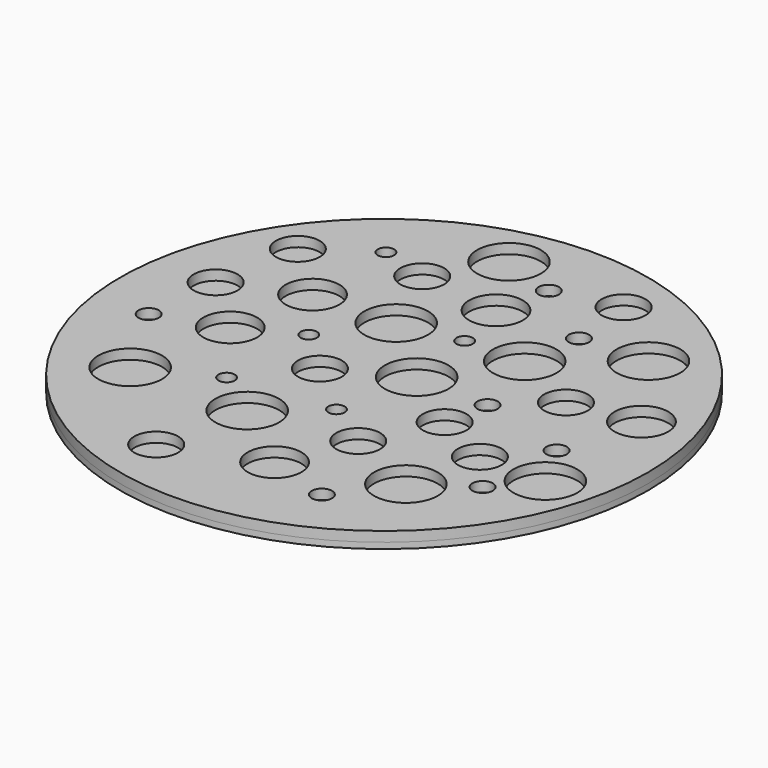
from build123d import *

# Parameters (mm, degrees)
F0_R     = 132.5
F0_R_2   = 11
F0_R_3   = 16
F0_R_4   = 5.1
F0_R_5   = 13.5
F0_R_6   = 4.1
F1_DEPTH = 5
F2_DEPTH = 3


with BuildPart() as f1:
    # F0 (on Top) → F1 (new body)
    with BuildSketch(Plane.XY):
        Circle(F0_R)
        with Locations((-32.839254, -101.938643)):
            Circle(F0_R_2, mode=Mode.SUBTRACT)
        with Locations((-81.735484, -57.151336)):
            Circle(F0_R_3, mode=Mode.SUBTRACT)
        with Locations((-104.334578, -17.294746)):
            Circle(F0_R_4, mode=Mode.SUBTRACT)
        with Locations((-72.284952, -6.200644)):
            Circle(F0_R_5, mode=Mode.SUBTRACT)
        with Locations((-46.809606, -40.304739)):
            Circle(F0_R_6, mode=Mode.SUBTRACT)
        with Locations((-22.977829, -57.151336)):
            Circle(F0_R_3, mode=Mode.SUBTRACT)
        with Locations((-22.977829, -11.542249)):
            Circle(F0_R_2, mode=Mode.SUBTRACT)
        with Locations((12.769838, -84.681153)):
            Circle(F0_R_5, mode=Mode.SUBTRACT)
        with Locations((44.408575, -94.54257)):
            Circle(F0_R_4, mode=Mode.SUBTRACT)
        with Locations((64.542316, -67.012765)):
            Circle(F0_R_3, mode=Mode.SUBTRACT)
        with Locations((27.151082, -50.166164)):
            Circle(F0_R_2, mode=Mode.SUBTRACT)
        with Locations((3.730196, -34.552239)):
            Circle(F0_R_6, mode=Mode.SUBTRACT)
        with Locations((43.586791, -16.472962)):
            Circle(F0_R_2, mode=Mode.SUBTRACT)
        with Locations((89.606754, -50.166167)):
            Circle(F0_R_4, mode=Mode.SUBTRACT)
        with Locations((72.760172, -30.854205)):
            Circle(F0_R_2, mode=Mode.SUBTRACT)
        with Locations((92.893913, -7.844214)):
            Circle(F0_R_4, mode=Mode.SUBTRACT)
        with Locations((105.631582, -30.854205)):
            Circle(F0_R_3, mode=Mode.SUBTRACT)
        with Locations((-100.636549, 20.09649)):
            Circle(F0_R_2, mode=Mode.SUBTRACT)
        with Locations((-93.240485, 62.418438)):
            Circle(F0_R_2, mode=Mode.SUBTRACT)
        with Locations((-44.344265, 8.180597)):
            Circle(F0_R_6, mode=Mode.SUBTRACT)
        with Locations((-64.477995, 35.710413)):
            Circle(F0_R_5, mode=Mode.SUBTRACT)
        with Locations((-23.799634, 37.353978)):
            Circle(F0_R_3, mode=Mode.SUBTRACT)
        with Locations((-64.477995, 81.730388)):
            Circle(F0_R_6, mode=Mode.SUBTRACT)
        with Locations((-40.646229, 74.745208)):
            Circle(F0_R_2, mode=Mode.SUBTRACT)
        with Locations((-21.745151, 105.562173)):
            Circle(F0_R_3, mode=Mode.SUBTRACT)
        with Locations((11.126248, 6.537026)):
            Circle(F0_R_3, mode=Mode.SUBTRACT)
        with Locations((47.695715, 5.304352)):
            Circle(F0_R_4, mode=Mode.SUBTRACT)
        with Locations((6.606427, 42.284694)):
            Circle(F0_R_6, mode=Mode.SUBTRACT)
        with Locations((35.779811, 43.517366)):
            Circle(F0_R_3, mode=Mode.SUBTRACT)
        with Locations((70.294805, 26.259881)):
            Circle(F0_R_2, mode=Mode.SUBTRACT)
        with Locations((103.57713, 32.012377)):
            Circle(F0_R_5, mode=Mode.SUBTRACT)
        with Locations((0, 70.225395)):
            Circle(F0_R_5, mode=Mode.SUBTRACT)
        with Locations((5.784642, 96.111633)):
            Circle(F0_R_4, mode=Mode.SUBTRACT)
        with Locations((40.299647, 71.868971)):
            Circle(F0_R_4, mode=Mode.SUBTRACT)
        with Locations((37.423402, 103.507705)):
            Circle(F0_R_2, mode=Mode.SUBTRACT)
        with Locations((73.581956, 73.923431)):
            Circle(F0_R_3, mode=Mode.SUBTRACT)
    extrude(amount=F1_DEPTH)


with BuildPart() as f2:
    # F0 (on Top) → F2 (new body)
    with BuildSketch(Plane.XY):
        Circle(F0_R)
        with Locations((-32.839254, -101.938643)):
            Circle(F0_R_2, mode=Mode.SUBTRACT)
        with Locations((-81.735484, -57.151336)):
            Circle(F0_R_3, mode=Mode.SUBTRACT)
        with Locations((-104.334578, -17.294746)):
            Circle(F0_R_4, mode=Mode.SUBTRACT)
        with Locations((-72.284952, -6.200644)):
            Circle(F0_R_5, mode=Mode.SUBTRACT)
        with Locations((-46.809606, -40.304739)):
            Circle(F0_R_6, mode=Mode.SUBTRACT)
        with Locations((-22.977829, -57.151336)):
            Circle(F0_R_3, mode=Mode.SUBTRACT)
        with Locations((-22.977829, -11.542249)):
            Circle(F0_R_2, mode=Mode.SUBTRACT)
        with Locations((12.769838, -84.681153)):
            Circle(F0_R_5, mode=Mode.SUBTRACT)
        with Locations((44.408575, -94.54257)):
            Circle(F0_R_4, mode=Mode.SUBTRACT)
        with Locations((64.542316, -67.012765)):
            Circle(F0_R_3, mode=Mode.SUBTRACT)
        with Locations((27.151082, -50.166164)):
            Circle(F0_R_2, mode=Mode.SUBTRACT)
        with Locations((3.730196, -34.552239)):
            Circle(F0_R_6, mode=Mode.SUBTRACT)
        with Locations((43.586791, -16.472962)):
            Circle(F0_R_2, mode=Mode.SUBTRACT)
        with Locations((89.606754, -50.166167)):
            Circle(F0_R_4, mode=Mode.SUBTRACT)
        with Locations((72.760172, -30.854205)):
            Circle(F0_R_2, mode=Mode.SUBTRACT)
        with Locations((92.893913, -7.844214)):
            Circle(F0_R_4, mode=Mode.SUBTRACT)
        with Locations((105.631582, -30.854205)):
            Circle(F0_R_3, mode=Mode.SUBTRACT)
        with Locations((-100.636549, 20.09649)):
            Circle(F0_R_2, mode=Mode.SUBTRACT)
        with Locations((-93.240485, 62.418438)):
            Circle(F0_R_2, mode=Mode.SUBTRACT)
        with Locations((-44.344265, 8.180597)):
            Circle(F0_R_6, mode=Mode.SUBTRACT)
        with Locations((-64.477995, 35.710413)):
            Circle(F0_R_5, mode=Mode.SUBTRACT)
        with Locations((-23.799634, 37.353978)):
            Circle(F0_R_3, mode=Mode.SUBTRACT)
        with Locations((-64.477995, 81.730388)):
            Circle(F0_R_6, mode=Mode.SUBTRACT)
        with Locations((-40.646229, 74.745208)):
            Circle(F0_R_2, mode=Mode.SUBTRACT)
        with Locations((-21.745151, 105.562173)):
            Circle(F0_R_3, mode=Mode.SUBTRACT)
        with Locations((11.126248, 6.537026)):
            Circle(F0_R_3, mode=Mode.SUBTRACT)
        with Locations((47.695715, 5.304352)):
            Circle(F0_R_4, mode=Mode.SUBTRACT)
        with Locations((6.606427, 42.284694)):
            Circle(F0_R_6, mode=Mode.SUBTRACT)
        with Locations((35.779811, 43.517366)):
            Circle(F0_R_3, mode=Mode.SUBTRACT)
        with Locations((70.294805, 26.259881)):
            Circle(F0_R_2, mode=Mode.SUBTRACT)
        with Locations((103.57713, 32.012377)):
            Circle(F0_R_5, mode=Mode.SUBTRACT)
        with Locations((0, 70.225395)):
            Circle(F0_R_5, mode=Mode.SUBTRACT)
        with Locations((5.784642, 96.111633)):
            Circle(F0_R_4, mode=Mode.SUBTRACT)
        with Locations((40.299647, 71.868971)):
            Circle(F0_R_4, mode=Mode.SUBTRACT)
        with Locations((37.423402, 103.507705)):
            Circle(F0_R_2, mode=Mode.SUBTRACT)
        with Locations((73.581956, 73.923431)):
            Circle(F0_R_3, mode=Mode.SUBTRACT)
        with Locations((-23.799634, 37.353978)):
            Circle(F0_R_3)
        with Locations((105.631582, -30.854205)):
            Circle(F0_R_3)
        with Locations((72.760172, -30.854205)):
            Circle(F0_R_2)
        with Locations((-81.735484, -57.151336)):
            Circle(F0_R_3)
        with Locations((11.126248, 6.537026)):
            Circle(F0_R_3)
        with Locations((40.299647, 71.868971)):
            Circle(F0_R_4)
        with Locations((-22.977829, -11.542249)):
            Circle(F0_R_2)
        with Locations((5.784642, 96.111633)):
            Circle(F0_R_4)
        with Locations((-104.334578, -17.294746)):
            Circle(F0_R_4)
        with Locations((89.606754, -50.166167)):
            Circle(F0_R_4)
        with Locations((103.57713, 32.012377)):
            Circle(F0_R_5)
        with Locations((27.151082, -50.166164)):
            Circle(F0_R_2)
        with Locations((70.294805, 26.259881)):
            Circle(F0_R_2)
        with Locations((-40.646229, 74.745208)):
            Circle(F0_R_2)
        with Locations((-100.636549, 20.09649)):
            Circle(F0_R_2)
        with Locations((-32.839254, -101.938643)):
            Circle(F0_R_2)
        with Locations((37.423402, 103.507705)):
            Circle(F0_R_2)
        with Locations((47.695715, 5.304352)):
            Circle(F0_R_4)
        with Locations((44.408575, -94.54257)):
            Circle(F0_R_4)
        with Locations((43.586791, -16.472962)):
            Circle(F0_R_2)
        with Locations((64.542316, -67.012765)):
            Circle(F0_R_3)
        with Locations((-64.477995, 35.710413)):
            Circle(F0_R_5)
        with Locations((92.893913, -7.844214)):
            Circle(F0_R_4)
        with Locations((-72.284952, -6.200644)):
            Circle(F0_R_5)
        with Locations((-93.240485, 62.418438)):
            Circle(F0_R_2)
        with Locations((73.581956, 73.923431)):
            Circle(F0_R_3)
        with Locations((-22.977829, -57.151336)):
            Circle(F0_R_3)
        with Locations((12.769838, -84.681153)):
            Circle(F0_R_5)
        with Locations((0, 70.225395)):
            Circle(F0_R_5)
        with Locations((35.779811, 43.517366)):
            Circle(F0_R_3)
        with Locations((6.606427, 42.284694)):
            Circle(F0_R_6)
        with Locations((-46.809606, -40.304739)):
            Circle(F0_R_6)
        with Locations((3.730196, -34.552239)):
            Circle(F0_R_6)
        with Locations((-44.344265, 8.180597)):
            Circle(F0_R_6)
        with Locations((-64.477995, 81.730388)):
            Circle(F0_R_6)
        with Locations((-21.745151, 105.562173)):
            Circle(F0_R_3)
    extrude(amount=-F2_DEPTH)


solid = Compound([f1.part, f2.part])
